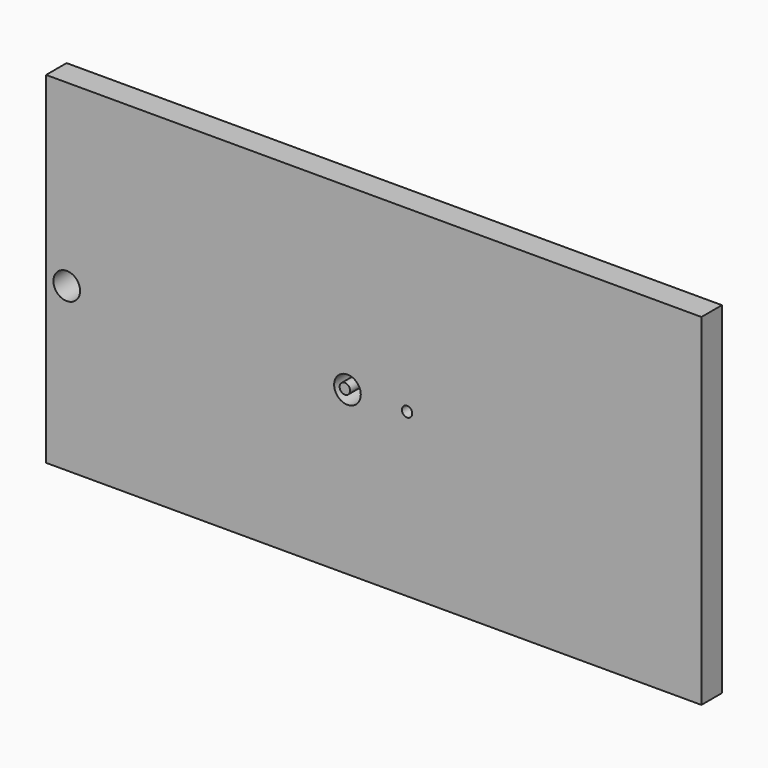
from build123d import *

# Parameters (mm, degrees)
F0_W     = 81.182834
F0_H     = 42.308484
F0_R     = 0.641838
F1_DEPTH = 3.175
F2_R     = 1.651
F2_R_2   = 0.650389
F3_DEPTH = 12.7
F4_DEPTH = 25.4


with BuildPart() as f1:
    # F0 (on Front) → F1 (new body)
    with BuildSketch(Plane.XZ):
        with Locations((0.480777, 1.030238)):
            Rectangle(F0_W, F0_H)
        with Locations((4.609508, 0)):
            Circle(F0_R, mode=Mode.SUBTRACT)
    extrude(amount=F1_DEPTH)

    # F2 (on face) → F3 (cut)
    with BuildSketch(Plane.XZ.offset(3.175)):
        with Locations((-2.776482, 0)):
            Circle(F2_R)
        with Locations((-3.094339, 0)):
            Circle(F2_R_2, mode=Mode.SUBTRACT)
        with Locations((-37.549082, 0)):
            Circle(F2_R)
    extrude(amount=-F3_DEPTH, mode=Mode.SUBTRACT)

    # F0 (on Front) → F4 (cut)
    with BuildSketch(Plane.XZ):
        with Locations((0.480777, 1.030238)):
            Rectangle(F0_W, F0_H)
        with Locations((4.609508, 0)):
            Circle(F0_R, mode=Mode.SUBTRACT)
    extrude(amount=-F4_DEPTH, mode=Mode.SUBTRACT)


solid = f1.part
